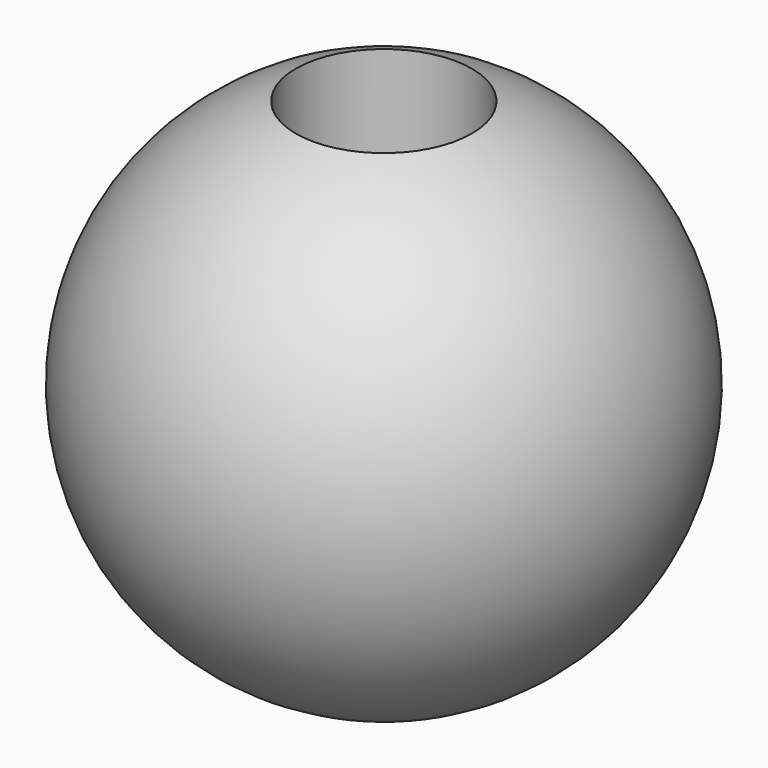
from build123d import *

# Parameters (mm, degrees)
F4_R     = 3.175
F5_DEPTH = 10.668
F6_DEPTH = 6.858


with BuildPart() as f2:
    # F0 (on Front) → F2 (revolve)
    with BuildSketch(Plane.XZ):
        with BuildLine():
            Line((0, -9.525), (0, 9.525))
            ThreePointArc((0, 9.525), (-9.525, 0), (0, -9.525))
        make_face()
    revolve(axis=Axis((0, 0, 0), (0, 0, 1)))

    # F4 (on offset) → F5 (cut)
    with BuildSketch(Plane.XY.offset(1.524)):
        Circle(F4_R)
    extrude(amount=F5_DEPTH, mode=Mode.SUBTRACT)

    # F4 (on offset) → F6 (cut)
    with BuildSketch(Plane.XY.offset(1.524)):
        Circle(F4_R)
    extrude(amount=F6_DEPTH, mode=Mode.SUBTRACT)


solid = f2.part
